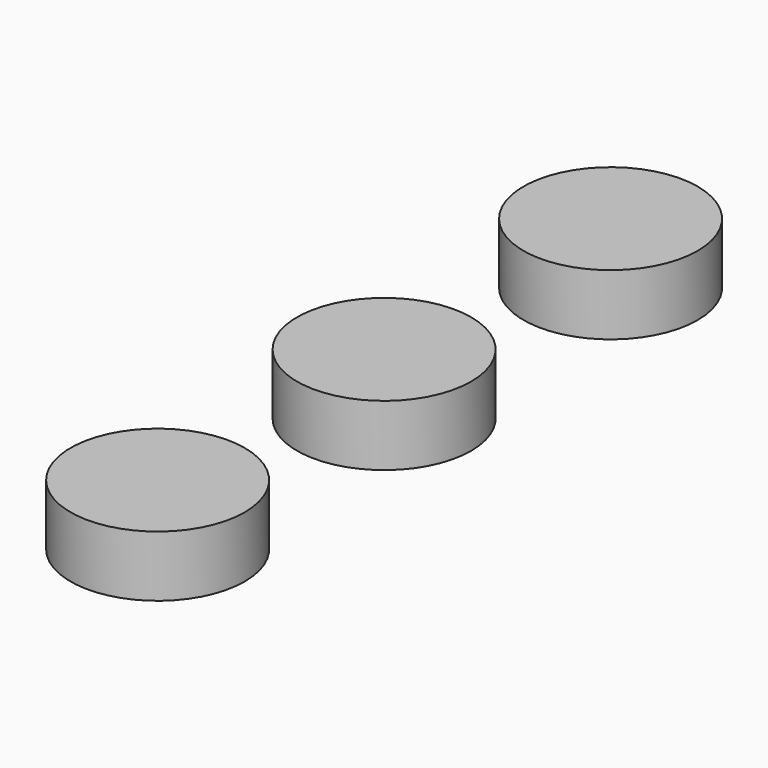
from build123d import *

# Parameters (mm, degrees)
F0_R     = 10.16
F1_R     = 10.16
F2_DEPTH = 7.112


with BuildPart() as f2:
    # F0 (on Top) + F1 (on Top) → F2 (new body)
    with BuildSketch(Plane.XY):
        with Locations((0, 33.02)):
            Circle(F0_R)
        with Locations((0, -33.02)):
            Circle(F0_R)
    with BuildSketch(Plane.XY):
        Circle(F1_R)
    extrude(amount=F2_DEPTH)


solid = f2.part
